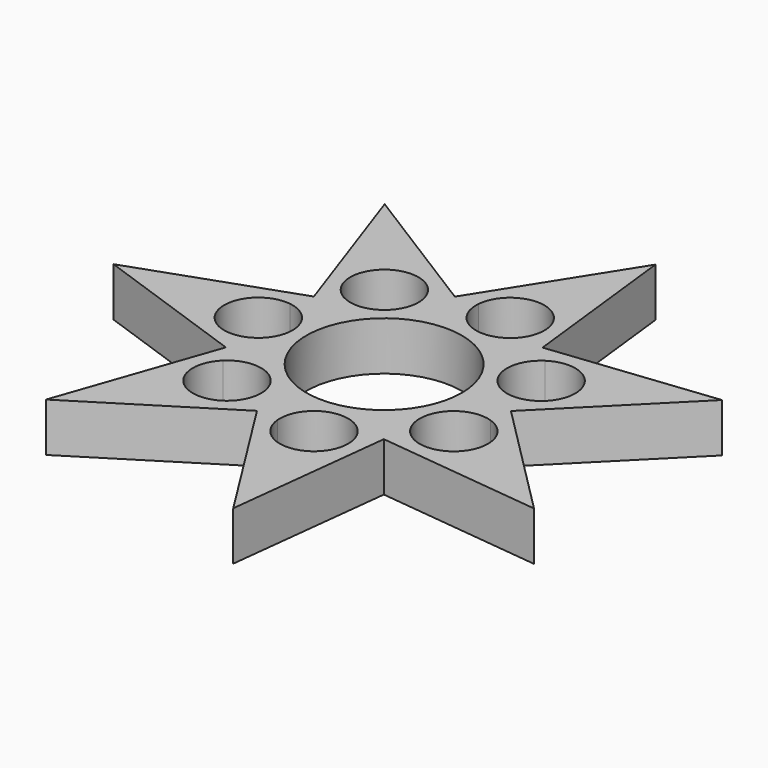
from build123d import *

# Parameters (mm, degrees)
F0_R     = 11.15
F1_DEPTH = 7


with BuildPart() as f1:
    # F0 (on Top) → F1 (new body)
    with BuildSketch(Plane.XY):
        with BuildLine():
            ThreePointArc((18.0493713478, -0.1506451083), (18.0498428363, -0.07532321), (18.05, 0))
            ThreePointArc((18.05, 0), (18.0498428363, 0.07532321), (18.0493713478, 0.1506451083))
            ThreePointArc((18.0493713478, 0.1506451083), (17.9729712675, 1.6657742397), (17.7696109789, 3.1691364216))
            ThreePointArc((17.7696109789, 3.1691364216), (11.8477406129, 5.7055711694), (13.556901855, 11.916917055))
            ThreePointArc((13.556901855, 11.916917055), (12.5083190376, 13.0132415198), (11.3713780537, 14.0176410698))
            ThreePointArc((11.3713780537, 14.0176410698), (11.2539909236, 14.1120582585), (11.135819877, 14.2054924472))
            ThreePointArc((11.135819877, 14.2054924472), (9.9036095511, 15.0904280211), (8.6014406017, 15.8687655341))
            ThreePointArc((8.6014406017, 15.8687655341), (2.9261502815, 12.8203020452), (-0.8644308762, 18.0292889283))
            ThreePointArc((-0.8644308762, 18.0292889283), (-2.3753525508, 17.8930209931), (-3.8694948487, 17.6303576145))
            ThreePointArc((-3.8694948487, 17.6303576145), (-4.0165028579, 17.5974488149), (-4.1632310906, 17.5633142341))
            ThreePointArc((-4.1632310906, 17.5633142341), (-5.6233721541, 17.151681714), (-7.043789986, 16.6188905356))
            ThreePointArc((-7.043789986, 16.6188905356), (-6.5295870144, 15.4120612212), (-6.3539909236, 14.1120582585))
            ThreePointArc((-6.3539909236, 14.1120582585), (-9.3247565098, 9.6078319569), (-14.6348295264, 10.5652385082))
            ThreePointArc((-14.6348295264, 10.5652385082), (-15.4703352201, 9.2989907075), (-16.1965592067, 7.9670552818))
            ThreePointArc((-16.1965592067, 7.9670552818), (-16.2624880656, 7.8316014911), (-16.3272841325, 7.6956021764))
            ThreePointArc((-16.3272841325, 7.6956021764), (-16.9158399314, 6.2973692457), (-17.3849030471, 4.8546520002))
            ThreePointArc((-17.3849030471, 4.8546520002), (-14.3575093047, 3.2211042308), (-13.15, 0))
            ThreePointArc((-13.15, 0), (-14.3575093047, -3.2211042308), (-17.3849030471, -4.8546520002))
            ThreePointArc((-17.3849030471, -4.8546520002), (-16.9158399314, -6.2973692457), (-16.3272841325, -7.6956021764))
            ThreePointArc((-16.3272841325, -7.6956021764), (-16.2624880656, -7.8316014911), (-16.1965592067, -7.9670552818))
            ThreePointArc((-16.1965592067, -7.9670552818), (-15.4703352201, -9.2989907075), (-14.6348295264, -10.5652385082))
            ThreePointArc((-14.6348295264, -10.5652385082), (-9.3247565098, -9.6078319569), (-6.3539909236, -14.1120582585))
            ThreePointArc((-6.3539909236, -14.1120582585), (-6.5295870144, -15.4120612212), (-7.043789986, -16.6188905356))
            ThreePointArc((-7.043789986, -16.6188905356), (-5.6233721541, -17.151681714), (-4.1632310906, -17.5633142341))
            ThreePointArc((-4.1632310906, -17.5633142341), (-4.0165028579, -17.5974488149), (-3.8694948487, -17.6303576145))
            ThreePointArc((-3.8694948487, -17.6303576145), (-2.3753525508, -17.8930209931), (-0.8644308762, -18.0292889283))
            ThreePointArc((-0.8644308762, -18.0292889283), (2.9261502815, -12.8203020452), (8.6014406017, -15.8687655341))
            ThreePointArc((8.6014406017, -15.8687655341), (9.9036095511, -15.0904280211), (11.135819877, -14.2054924472))
            ThreePointArc((11.135819877, -14.2054924472), (11.2539909236, -14.1120582585), (11.3713780537, -14.0176410698))
            ThreePointArc((11.3713780537, -14.0176410698), (12.5083190376, -13.0132415198), (13.556901855, -11.916917055))
            ThreePointArc((13.556901855, -11.916917055), (11.8477406129, -5.7055711694), (17.7696109789, -3.1691364216))
            ThreePointArc((17.7696109789, -3.1691364216), (17.9729712675, -1.6657742397), (18.0493713478, -0.1506451083))
        make_face()
        Circle(F0_R, mode=Mode.SUBTRACT)
        with BuildLine():
            Line((11.135819877, 14.2054924472), (11.3471904782, 14.2289268035))
            Line((11.3471904782, 14.2289268035), (8.641733305, 37.861907457))
            Line((8.641733305, 37.861907457), (-4.0497653938, 17.7431815068))
            Line((-4.0497653938, 17.7431815068), (-3.8694948487, 17.6303576145))
            ThreePointArc((-3.8694948487, 17.6303576145), (-2.3753525508, 17.8930209931), (-0.8644308762, 18.0292889283))
            ThreePointArc((-0.8644308762, 18.0292889283), (4.2326332619, 22.4926799278), (8.9165028579, 17.5974488149))
            ThreePointArc((8.9165028579, 17.5974488149), (8.8370938458, 16.7188689792), (8.6014406017, 15.8687655341))
            ThreePointArc((8.6014406017, 15.8687655341), (9.9036095511, 15.0904280211), (11.135819877, 14.2054924472))
        make_face()
        with BuildLine():
            Line((-38.8355969543, 0), (-16.3971653241, -7.8964586405))
            Line((-16.3971653241, -7.8964586405), (-16.3272841325, -7.6956021764))
            ThreePointArc((-16.3272841325, -7.6956021764), (-16.9158399314, -6.2973692457), (-17.3849030471, -4.8546520002))
            ThreePointArc((-17.3849030471, -4.8546520002), (-22.95, 0), (-17.3849030471, 4.8546520002))
            ThreePointArc((-17.3849030471, 4.8546520002), (-16.9158399314, 6.2973692457), (-16.3272841325, 7.6956021764))
            Line((-16.3272841325, 7.6956021764), (-16.3971653241, 7.8964586405))
            Line((-16.3971653241, 7.8964586405), (-38.8355969543, 0))
        make_face()
        with BuildLine():
            Line((-4.1632310906, 17.5633142341), (-4.0497653938, 17.7431815068))
            Line((-4.0497653938, 17.7431815068), (-24.2135986501, 30.3628923393))
            Line((-24.2135986501, 30.3628923393), (-16.3971653241, 7.8964586405))
            Line((-16.3971653241, 7.8964586405), (-16.1965592067, 7.9670552818))
            ThreePointArc((-16.1965592067, 7.9670552818), (-15.4703352201, 9.2989907075), (-14.6348295264, 10.5652385082))
            ThreePointArc((-14.6348295264, 10.5652385082), (-14.3090909527, 17.9430325226), (-7.043789986, 16.6188905356))
            ThreePointArc((-7.043789986, 16.6188905356), (-5.6233721541, 17.151681714), (-4.1632310906, 17.5633142341))
        make_face()
        with BuildLine():
            ThreePointArc((17.7696109789, 3.1691364216), (17.9729712675, 1.6657742397), (18.0493713478, 0.1506451083))
            Line((18.0493713478, 0.1506451083), (18.1994804796, 0))
            Line((18.1994804796, 0), (34.9896638222, 16.8501340174))
            Line((34.9896638222, 16.8501340174), (11.3471904782, 14.2289268035))
            Line((11.3471904782, 14.2289268035), (11.3713780537, 14.0176410698))
            ThreePointArc((11.3713780537, 14.0176410698), (12.5083190376, 13.0132415198), (13.556901855, 11.916917055))
            ThreePointArc((13.556901855, 11.916917055), (18.5811760101, 12.1482768572), (21.1624880656, 7.8316014911))
            ThreePointArc((21.1624880656, 7.8316014911), (20.2244889664, 4.9484523686), (17.7696109789, 3.1691364216))
        make_face()
        with BuildLine():
            Line((18.1994804796, 0), (18.0493713478, -0.1506451083))
            ThreePointArc((18.0493713478, -0.1506451083), (17.9729712675, -1.6657742397), (17.7696109789, -3.1691364216))
            ThreePointArc((17.7696109789, -3.1691364216), (20.2244889664, -4.9484523686), (21.1624880656, -7.8316014911))
            ThreePointArc((21.1624880656, -7.8316014911), (18.5811760101, -12.1482768572), (13.556901855, -11.916917055))
            ThreePointArc((13.556901855, -11.916917055), (12.5083190376, -13.0132415198), (11.3713780537, -14.0176410698))
            Line((11.3713780537, -14.0176410698), (11.3471904782, -14.2289268035))
            Line((11.3471904782, -14.2289268035), (34.9896638222, -16.8501340174))
            Line((34.9896638222, -16.8501340174), (18.1994804796, 0))
        make_face()
        with BuildLine():
            Line((-16.3272841325, -7.6956021764), (-16.3971653241, -7.8964586405))
            Line((-16.3971653241, -7.8964586405), (-16.1965592067, -7.9670552818))
            ThreePointArc((-16.1965592067, -7.9670552818), (-16.2624880656, -7.8316014911), (-16.3272841325, -7.6956021764))
        make_face()
        with BuildLine():
            Line((-16.1965592067, 7.9670552818), (-16.3971653241, 7.8964586405))
            Line((-16.3971653241, 7.8964586405), (-16.3272841325, 7.6956021764))
            ThreePointArc((-16.3272841325, 7.6956021764), (-16.2624880656, 7.8316014911), (-16.1965592067, 7.9670552818))
        make_face()
        with BuildLine():
            Line((-3.8694948487, 17.6303576145), (-4.0497653938, 17.7431815068))
            Line((-4.0497653938, 17.7431815068), (-4.1632310906, 17.5633142341))
            ThreePointArc((-4.1632310906, 17.5633142341), (-4.0165028579, 17.5974488149), (-3.8694948487, 17.6303576145))
        make_face()
        with BuildLine():
            ThreePointArc((18.0493713478, 0.1506451083), (18.0498428363, 0.07532321), (18.05, 0))
            ThreePointArc((18.05, 0), (18.0498428363, -0.07532321), (18.0493713478, -0.1506451083))
            Line((18.0493713478, -0.1506451083), (18.1994804796, 0))
            Line((18.1994804796, 0), (18.0493713478, 0.1506451083))
        make_face()
        with BuildLine():
            ThreePointArc((11.135819877, 14.2054924472), (11.2539909236, 14.1120582585), (11.3713780537, 14.0176410698))
            Line((11.3713780537, 14.0176410698), (11.3471904782, 14.2289268035))
            Line((11.3471904782, 14.2289268035), (11.135819877, 14.2054924472))
        make_face()
        with BuildLine():
            Line((11.135819877, -14.2054924472), (11.3471904782, -14.2289268035))
            Line((11.3471904782, -14.2289268035), (11.3713780537, -14.0176410698))
            ThreePointArc((11.3713780537, -14.0176410698), (11.2539909236, -14.1120582585), (11.135819877, -14.2054924472))
        make_face()
        with BuildLine():
            Line((-4.1632310906, -17.5633142341), (-4.0497653938, -17.7431815068))
            Line((-4.0497653938, -17.7431815068), (-3.8694948487, -17.6303576145))
            ThreePointArc((-3.8694948487, -17.6303576145), (-4.0165028579, -17.5974488149), (-4.1632310906, -17.5633142341))
        make_face()
        with BuildLine():
            Line((8.641733305, -37.861907457), (11.3471904782, -14.2289268035))
            Line((11.3471904782, -14.2289268035), (11.135819877, -14.2054924472))
            ThreePointArc((11.135819877, -14.2054924472), (9.9036095511, -15.0904280211), (8.6014406017, -15.8687655341))
            ThreePointArc((8.6014406017, -15.8687655341), (8.8370938458, -16.7188689792), (8.9165028579, -17.5974488149))
            ThreePointArc((8.9165028579, -17.5974488149), (4.2326332619, -22.4926799278), (-0.8644308762, -18.0292889283))
            ThreePointArc((-0.8644308762, -18.0292889283), (-2.3753525508, -17.8930209931), (-3.8694948487, -17.6303576145))
            Line((-3.8694948487, -17.6303576145), (-4.0497653938, -17.7431815068))
            Line((-4.0497653938, -17.7431815068), (8.641733305, -37.861907457))
        make_face()
        with BuildLine():
            Line((-24.2135986501, -30.3628923393), (-4.0497653938, -17.7431815068))
            Line((-4.0497653938, -17.7431815068), (-4.1632310906, -17.5633142341))
            ThreePointArc((-4.1632310906, -17.5633142341), (-5.6233721541, -17.151681714), (-7.043789986, -16.6188905356))
            ThreePointArc((-7.043789986, -16.6188905356), (-14.3090909527, -17.9430325226), (-14.6348295264, -10.5652385082))
            ThreePointArc((-14.6348295264, -10.5652385082), (-15.4703352201, -9.2989907075), (-16.1965592067, -7.9670552818))
            Line((-16.1965592067, -7.9670552818), (-16.3971653241, -7.8964586405))
            Line((-16.3971653241, -7.8964586405), (-24.2135986501, -30.3628923393))
        make_face()
    extrude(amount=F1_DEPTH)


solid = f1.part
